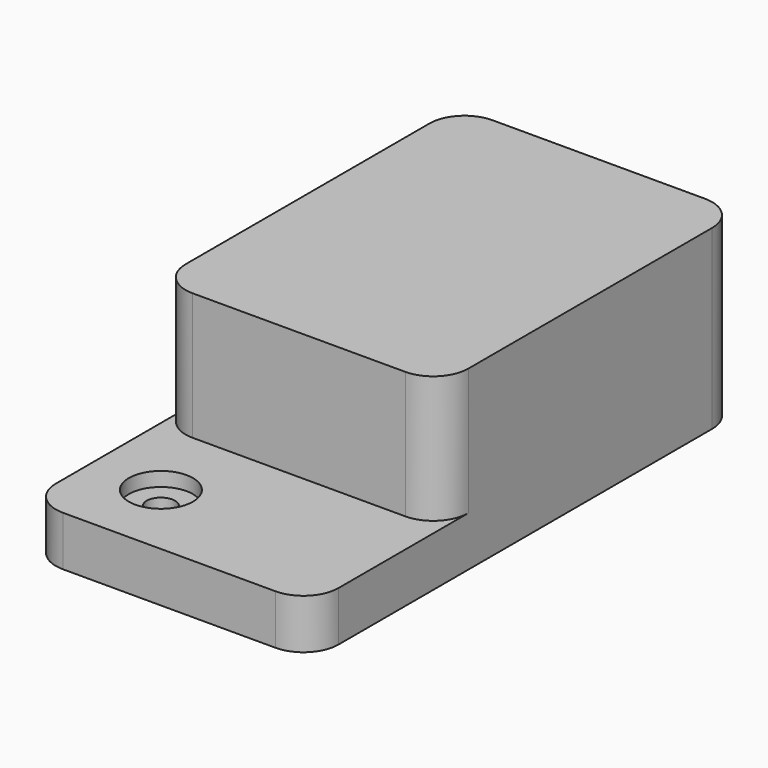
from build123d import *

# Parameters (mm, degrees)
F1_DEPTH = 127
F3_R     = 6.35
F4_DEPTH = 22.353
F2_R     = 14.396011
F5_DEPTH = 6.35
F6_R     = 15.748


with BuildPart() as f1:
    # F0 (on Right) → F1 (new body)
    with BuildSketch(Plane.YZ):
        Polygon((0, 22.352), (0, 0), (241.3, 0), (241.3, 79.502), (72.898, 79.502), (72.898, 22.352), align=None)
    extrude(amount=F1_DEPTH)

    # F3 (on face) → F4 (cut, through all)
    with BuildSketch(Plane.XY.offset(22.352)):
        with Locations((31.75, 35.052)):
            Circle(F3_R)
    extrude(amount=-F4_DEPTH, mode=Mode.SUBTRACT)

    # F2 (on face) → F5 (cut)
    with BuildSketch(Plane.XY.offset(22.352)):
        with Locations((31.75, 35.052)):
            Circle(F2_R)
    extrude(amount=-F5_DEPTH, mode=Mode.SUBTRACT)

    # F6
    f6_edges = [f1.edges().sort_by_distance(p)[0] for p in [
        (127, 72.898, 50.927),
        (127, 0, 11.176),
        (0, 0, 11.176),
        (0, 72.898, 50.927),
        (0, 241.3, 39.751),
        (127, 241.3, 39.751),
    ]]
    fillet(f6_edges, radius=F6_R)


solid = f1.part
